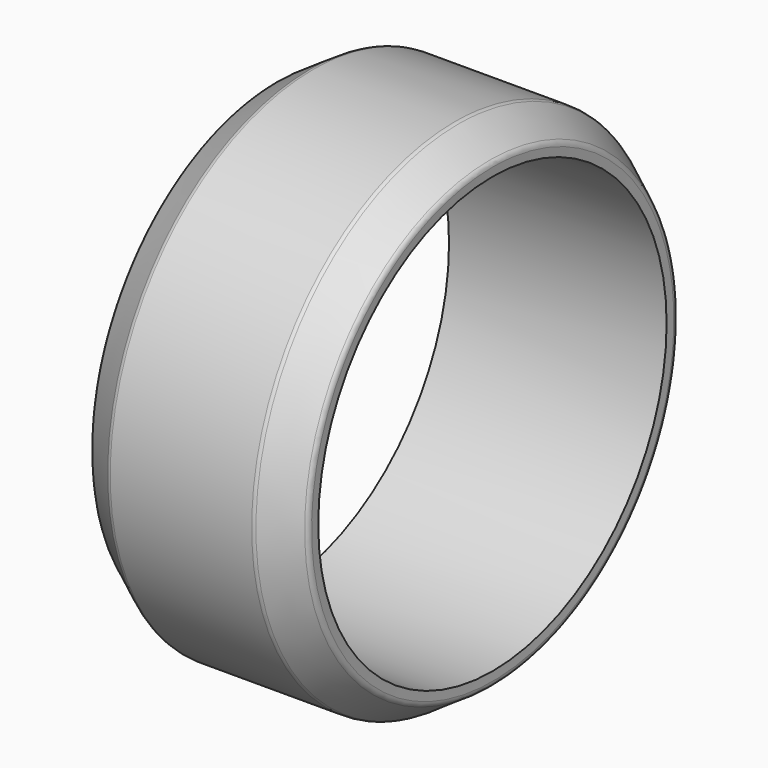
from build123d import *

# Parameters (mm, degrees)
F3_R = 0.254


with BuildPart() as f2:
    # F1 (on Front) → F2 (revolve)
    with BuildSketch(Plane.XZ):
        Polygon((3.0028, 10.5), (-2.9972, 10.5), (-4.5042, 9.5), (-4.515511, 9), (4.478209, 9), (4.4958, 9.5), align=None)
        Polygon((3.0028, 10.5), (-2.9972, 10.5), (-4.5042, 9.5), (-4.515511, 9), (4.478209, 9), (4.4958, 9.5), align=None)
    revolve(axis=Axis((-3.245685, 0, 0), (1, 0, 0)))

    # F3
    f3_edges = [f2.edges().sort_by_distance(p)[0] for p in [
        (4.4958, 0, -9.5),
        (-4.5042, 0, -9.5),
        (-2.9972, 0, -10.5),
        (3.0028, 0, -10.5),
    ]]
    fillet(f3_edges, radius=F3_R)


solid = f2.part
